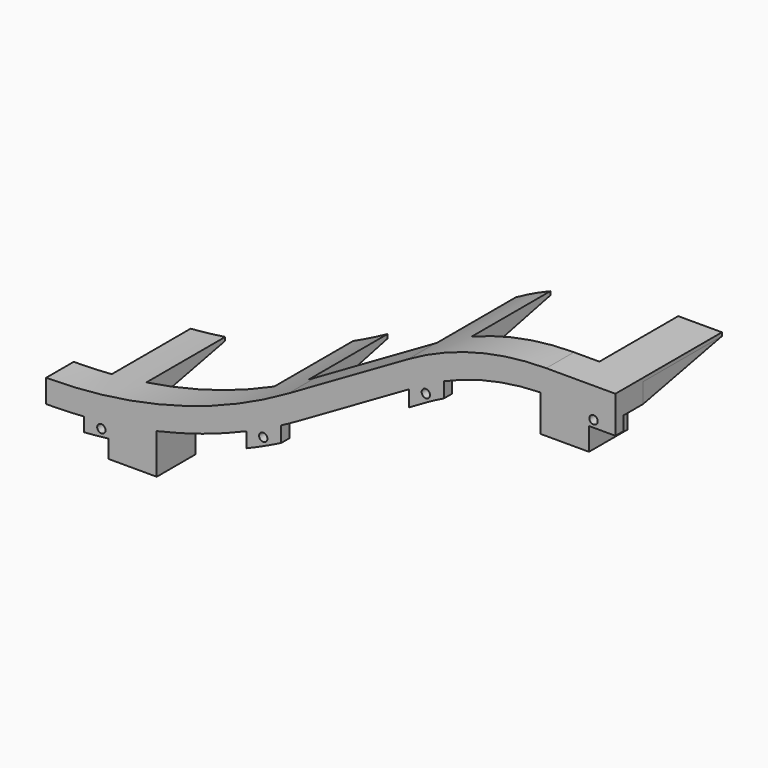
from build123d import *

# Parameters (mm, degrees)
SKETCH038_W            = 5
SKETCH038_H            = 3.1
EXTRUDE001_DEPTH       = 7
BOX010_W               = 200
BOX010_H               = 100
BOX010_DEPTH           = 100
BOX008_W               = 20
BOX008_H               = 20
BOX008_DEPTH           = 20
BOX008_PLACEMENT_ANGLE = 30
BOX011_W               = 14
BOX011_H               = 14
BOX011_DEPTH           = 20
SKETCH039_R            = 5.5
POCKET007_DEPTH        = 20.001
BOX014_W               = 7.5
BOX014_H               = 60
BOX014_DEPTH           = 200
ARRAY002_X_COUNT       = 7
ARRAY002_X_PITCH       = 47
BOX006_W               = 37
BOX006_H               = 60
BOX006_DEPTH           = 200
ARRAY_X_COUNT          = 6
ARRAY_X_PITCH          = 47
BOX012_W               = 14
BOX012_H               = 14
BOX012_DEPTH           = 12
SKETCH032_R            = 5.5
POCKET009_DEPTH        = 12.001
BOX013_W               = 14
BOX013_H               = 14
BOX013_DEPTH           = 12
SKETCH034_R            = 5.5
POCKET008_DEPTH        = 12.001
BOX009_W               = 37
BOX009_H               = 60
BOX009_DEPTH           = 200
ARRAY001_X_COUNT       = 6
ARRAY001_X_PITCH       = 47
SKETCH035_W            = 3
SKETCH035_H            = 4
SKETCH036_R            = 1.2
POCKET006_DEPTH        = 3.001


with BuildPart() as extrude001:
    # Sketch038 → Extrude001 (new body)
    with BuildSketch(Plane.YZ):
        with Locations((13.55, -28.55)):
            Rectangle(SKETCH038_W, SKETCH038_H)
    extrude(amount=EXTRUDE001_DEPTH)


with BuildPart() as bigleft:
    # Box010 → Box010 (new body)
    with BuildSketch(Plane(origin=(0, -50, -50), x_dir=(1, 0, 0), z_dir=(0, 0, 1))):
        with Locations((100, 50)):
            Rectangle(BOX010_W, BOX010_H)
    extrude(amount=BOX010_DEPTH)


with BuildPart() as pillar_cut_cube_l:
    # Box008 → Box008 (new body)
    with BuildSketch(Plane.XY):
        with Locations((10, 10)):
            Rectangle(BOX008_W, BOX008_H)
    extrude(amount=BOX008_DEPTH)


with BuildPart() as pillar_cut_cube_l_1:
    # Box008 placement: moved
    add(pillar_cut_cube_l.part.moved(Location((-127.001, 5, 20.4905))).rotate(Axis((-127.001, 5, 20.4905), (0, 1, 0)), BOX008_PLACEMENT_ANGLE))


with BuildPart() as cut011:
    # Box011 → Box011 (new body)
    with BuildSketch(Plane(origin=(-125, 8.55, 0), x_dir=(1, 0, 0), z_dir=(0, 0, 1))):
        with Locations((7, 7)):
            Rectangle(BOX011_W, BOX011_H)
    extrude(amount=BOX011_DEPTH)

    # Sketch039 → Pocket007 (cut, through all)
    with BuildSketch(Plane(origin=(-125, 8.55, 20), x_dir=(1, 0, 0), z_dir=(0, 0, 1))):
        with Locations((7, 7)):
            Circle(SKETCH039_R)
    extrude(amount=-POCKET007_DEPTH, mode=Mode.SUBTRACT)

    # Cut011: cut pillar_cut_cube_l
    add(pillar_cut_cube_l_1.part, mode=Mode.SUBTRACT)


with BuildPart() as array002:
    # Box014 → Box014 (new body)
    with BuildSketch(Plane(origin=(-128.8, 18.55, -100), x_dir=(1, 0, 0), z_dir=(0, 0, 1))):
        with Locations((3.75, 30)):
            Rectangle(BOX014_W, BOX014_H)
    extrude(amount=BOX014_DEPTH)

    # Array002 X: Array002 ×7


with BuildPart() as array002_1:
    add(array002.part)
    with Locations(*[(i * ARRAY002_X_PITCH, 0, 0) for i in range(1, ARRAY002_X_COUNT)]):
        add(array002.part)


with BuildPart() as rail_cut_cube_array_b:
    # Box006 → Box006 (new body)
    with BuildSketch(Plane(origin=(-120, 18.55, -100), x_dir=(1, 0, 0), z_dir=(0, 0, 1))):
        with Locations((18.5, 30)):
            Rectangle(BOX006_W, BOX006_H)
    extrude(amount=BOX006_DEPTH)

    # Array X: rail_cut_cube_array_b ×6


with BuildPart() as rail_cut_cube_array_b_1:
    add(rail_cut_cube_array_b.part)
    with Locations(*[(i * ARRAY_X_PITCH, 0, 0) for i in range(1, ARRAY_X_COUNT)]):
        add(rail_cut_cube_array_b.part)


with BuildPart() as cut013:
    # Sweep002: sweep along a path in Sketch028
    with BuildLine(Plane.XZ) as sweep002_path:
        Line((164.641016, 24.27441), (144.641016, 24.27441))
        ThreePointArc((144.641016, 24.27441), (123.935493, 21.548477), (104.641016, 13.556443))
        Line((104.641016, 13.556443), (70, -6.443557))
        ThreePointArc((70, -6.443557), (0, -25.2), (-70, -6.443557))
        Line((-70, -6.443557), (-130.621778, 28.556443))
    # Sketch043 → Sweep002 (sweep)
    with BuildSketch(Plane.YZ.offset(164.641016)):
        Polygon((18.55, 17.58), (47.05, 23.28), (18.55, 23.28), align=None)
    sweep(path=sweep002_path.line)

    # Cut012: cut rail_cut_cube_array_b
    add(rail_cut_cube_array_b_1.part, mode=Mode.SUBTRACT)

    # Cut013: cut Array002
    add(array002_1.part, mode=Mode.SUBTRACT)


with BuildPart() as rail_cut_b:
    # Sweep: sweep along a path in Sketch028
    with BuildLine(Plane.XZ) as sweep_path:
        Line((164.641016, 24.27441), (144.641016, 24.27441))
        ThreePointArc((144.641016, 24.27441), (123.935493, 21.548477), (104.641016, 13.556443))
        Line((104.641016, 13.556443), (70, -6.443557))
        ThreePointArc((70, -6.443557), (0, -25.2), (-70, -6.443557))
        Line((-70, -6.443557), (-130.621778, 28.556443))
    # Sketch029 → Sweep (sweep)
    with BuildSketch(Plane.YZ):
        Polygon((-19.25, -25.2), (-19.25, -31.9), (-9.25, -31.9), (-9.25, -26.2), (19.25, -26.2), (19.25, -25.2), align=None)
    sweep(path=sweep_path.line)


with BuildPart() as rail_cut_b_1:
    # Sweep placement: moved
    add(rail_cut_b.part.moved(Location((0, 27.8, 0))))

    # Cut007: cut rail_cut_cube_array_b
    add(rail_cut_cube_array_b_1.part, mode=Mode.SUBTRACT)


with BuildPart() as pillar_hollow_r:
    # Box012 → Box012 (new body)
    with BuildSketch(Plane(origin=(143, 8.55, 7), x_dir=(1, 0, 0), z_dir=(0, 0, 1))):
        with Locations((7, 7)):
            Rectangle(BOX012_W, BOX012_H)
    extrude(amount=BOX012_DEPTH)

    # Sketch032 → Pocket009 (cut, through all)
    with BuildSketch(Plane(origin=(143, 8.55, 19), x_dir=(1, 0, 0), z_dir=(0, 0, 1))):
        with Locations((7, 7)):
            Circle(SKETCH032_R)
    extrude(amount=-POCKET009_DEPTH, mode=Mode.SUBTRACT)


with BuildPart() as pillar_hollow_m:
    # Box013 → Box013 (new body)
    with BuildSketch(Plane(origin=(18, 8.55, -40), x_dir=(1, 0, 0), z_dir=(0, 0, 1))):
        with Locations((7, 7)):
            Rectangle(BOX013_W, BOX013_H)
    extrude(amount=BOX013_DEPTH)

    # Sketch034 → Pocket008 (cut, through all)
    with BuildSketch(Plane(origin=(18, 8.55, -28), x_dir=(1, 0, 0), z_dir=(0, 0, 1))):
        with Locations((7, 7)):
            Circle(SKETCH034_R)
    extrude(amount=-POCKET008_DEPTH, mode=Mode.SUBTRACT)


with BuildPart() as mount_cube_array_b:
    # Box009 → Box009 (new body)
    with BuildSketch(Plane(origin=(-120, 18.55, -100), x_dir=(1, 0, 0), z_dir=(0, 0, 1))):
        with Locations((18.5, 30)):
            Rectangle(BOX009_W, BOX009_H)
    extrude(amount=BOX009_DEPTH)

    # Array001 X: mount_cube_array_b ×6


with BuildPart() as mount_cube_array_b_1:
    add(mount_cube_array_b.part)
    with Locations(*[(i * ARRAY001_X_PITCH, 0, 0) for i in range(1, ARRAY001_X_COUNT)]):
        add(mount_cube_array_b.part)


with BuildPart() as mount_cube_array_b_2:
    # Array001 placement: moved
    add(mount_cube_array_b_1.part.moved(Location((0, -30, 0))))


with BuildPart() as obj1:
    # Sweep001: sweep along a path in Sketch028
    with BuildLine(Plane.XZ) as sweep001_path:
        Line((-130.621778, 28.556443), (-70, -6.443557))
        ThreePointArc((-70, -6.443557), (0, -25.2), (70, -6.443557))
        Line((70, -6.443557), (104.641016, 13.556443))
        ThreePointArc((104.641016, 13.556443), (123.935493, 21.548477), (144.641016, 24.27441))
        Line((144.641016, 24.27441), (164.641016, 24.27441))
    # Sketch035 → Sweep001 (sweep)
    with BuildSketch(Plane.YZ):
        with Locations((-17.75, -33.9)):
            Rectangle(SKETCH035_W, SKETCH035_H)
    sweep(path=sweep001_path.line)


with BuildPart() as obj1_1:
    # Sweep001 placement: moved
    add(obj1.part.moved(Location((0, 27.8, 0))))

    # Sketch036 → Pocket006 (cut, through all)
    with BuildSketch(Plane.XZ.offset(-8.55)):
        with Locations((-127.361382, 16.612761)):
            Circle(SKETCH036_R)
        with Locations((-78.25576, -11.759304)):
            Circle(SKETCH036_R)
        with Locations((-31.170284, -30.615305)):
            Circle(SKETCH036_R)
        with Locations((15.982787, -32.973976)):
            Circle(SKETCH036_R)
        with Locations((62.801571, -19.921701)):
            Circle(SKETCH036_R)
        with Locations((109.81105, 6.487408)):
            Circle(SKETCH036_R)
        with Locations((158.314011, 15.583238)):
            Circle(SKETCH036_R)
    extrude(amount=-POCKET006_DEPTH, mode=Mode.SUBTRACT)

    # Cut010: cut mount_cube_array_b
    add(mount_cube_array_b_2.part, mode=Mode.SUBTRACT)

    # Fusion003: union Cut011, Cut013, rail_cut_b, pillar_hollow_r, pillar_hollow_m
    add(cut011.part)
    add(cut013.part)
    add(rail_cut_b_1.part)
    add(pillar_hollow_r.part)
    add(pillar_hollow_m.part)

    # Common: intersect bigleft
    add(bigleft.part, mode=Mode.INTERSECT)

    # Cut015: cut Extrude001
    add(extrude001.part, mode=Mode.SUBTRACT)


solid = obj1_1.part
